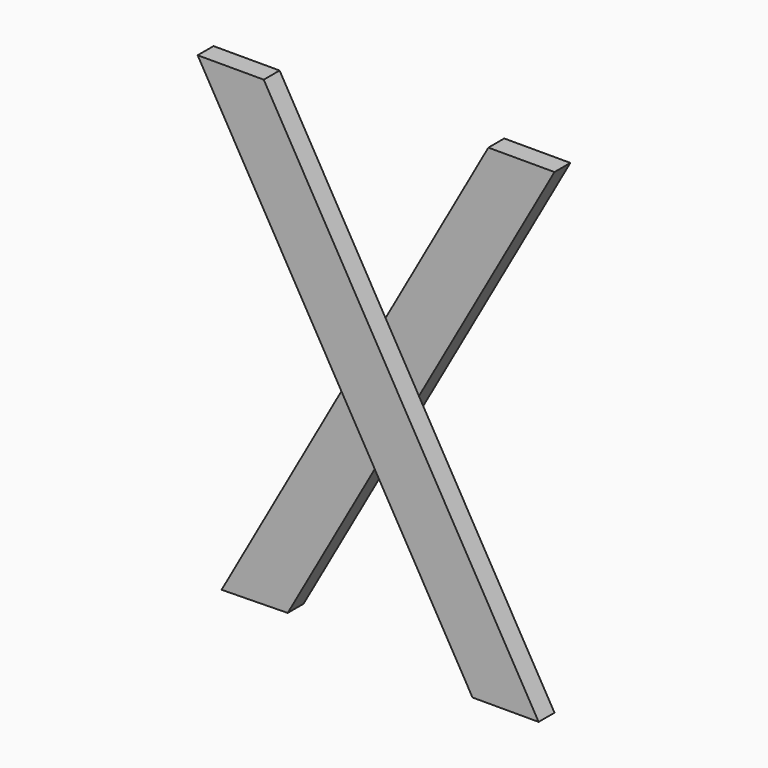
from build123d import *

# Parameters (mm, degrees)
F1_DEPTH = 19.05
F3_DEPTH = 19.05


with BuildPart() as f1:
    # F0 (on Front) → F1 (new body)
    with BuildSketch(Plane.XZ):
        Polygon((-63.5, 0), (0, 0), (-263.9645430735, 457.2), (-327.4645430735, 457.2), align=None)
    extrude(amount=F1_DEPTH)

    # F2 (on face) → F3 (join)
    with BuildSketch(Plane(origin=(0, 0, 0), x_dir=(-1, 0, 0), z_dir=(0, 1, 0))):
        Polygon((130.1731683118, 225.4665412982), (162.2384621855, 281.0052594471), (63.5, 457.2), (0, 457.2), align=None)
        Polygon((161.4879657143, 169.7201351475), (193.5152767914, 225.1930651629), (162.2384621855, 281.0052594471), (130.1731683118, 225.4665412982), align=None)
        Polygon((256.2212291294, 1.0765731137), (319.7121024132, 0), (193.5152767914, 225.1930651629), (161.4879657143, 169.7201351475), align=None)
    extrude(amount=F3_DEPTH)


solid = f1.part
